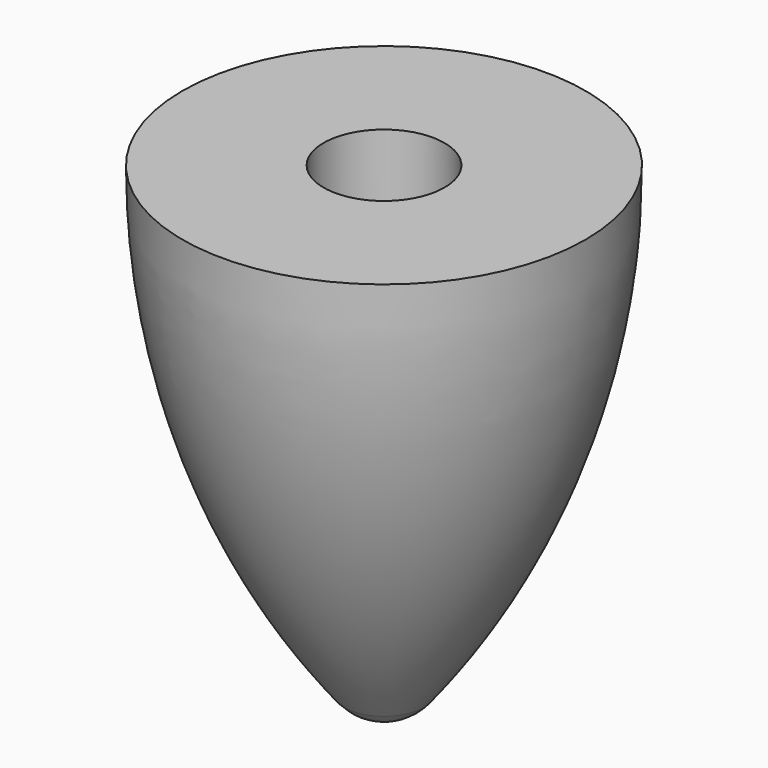
from build123d import *

# Parameters (mm, degrees)
F2_R     = 3
F3_DEPTH = 6


with BuildPart() as f1:
    # F0 (on Front) → F1 (revolve)
    with BuildSketch(Plane.XZ):
        with BuildLine():
            Line((10, 0), (0, 0))
            Line((0, 0), (0, -24))
            ThreePointArc((0, -24), (1.086873, -23.751379), (1.95757, -23.054966))
            ThreePointArc((1.95757, -23.054966), (7.931687, -12.208728), (10, 0))
        make_face()
    revolve(axis=Axis((0, 0, -12), (0, 0, -1)))

    # F2 (on face) → F3 (cut)
    with BuildSketch(Plane.XY):
        Circle(F2_R)
    extrude(amount=-F3_DEPTH, mode=Mode.SUBTRACT)


solid = f1.part
